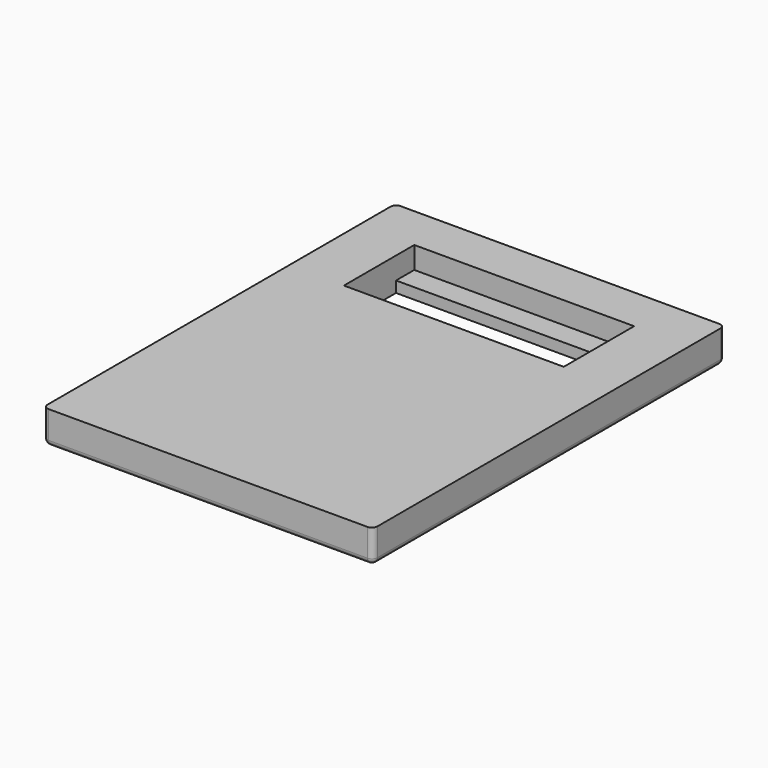
from build123d import *

# Parameters (mm, degrees)
F0_W     = 30
F0_H     = 40
F0_W_2   = 20
F0_H_2   = 8
F2_DEPTH = 3
F1_W     = 20
F1_H     = 3
F3_DEPTH = 1
F4_R     = 0.5


with BuildPart() as f2:
    # F0 (on Top) → F2 (new body)
    with BuildSketch(Plane.XY):
        Rectangle(F0_W, F0_H)
        with Locations((0, 11.941392)):
            Rectangle(F0_W_2, F0_H_2, mode=Mode.SUBTRACT)
    extrude(amount=F2_DEPTH)

    # F1 (on face) → F3 (join)
    with BuildSketch(Plane.XY):
        with Locations((0, 15.365714)):
            Rectangle(F1_W, F1_H)
    extrude(amount=F3_DEPTH)

    # F4
    f4_edges = [f2.edges().sort_by_distance(p)[0] for p in [
        (15, 0, 0),
        (0, 20, 0),
        (-15, 0, 0),
        (0, -20, 0),
        (-15, -20, 1.5),
        (15, -20, 1.5),
        (-15, 20, 1.5),
        (15, 20, 1.5),
    ]]
    fillet(f4_edges, radius=F4_R)


solid = f2.part
